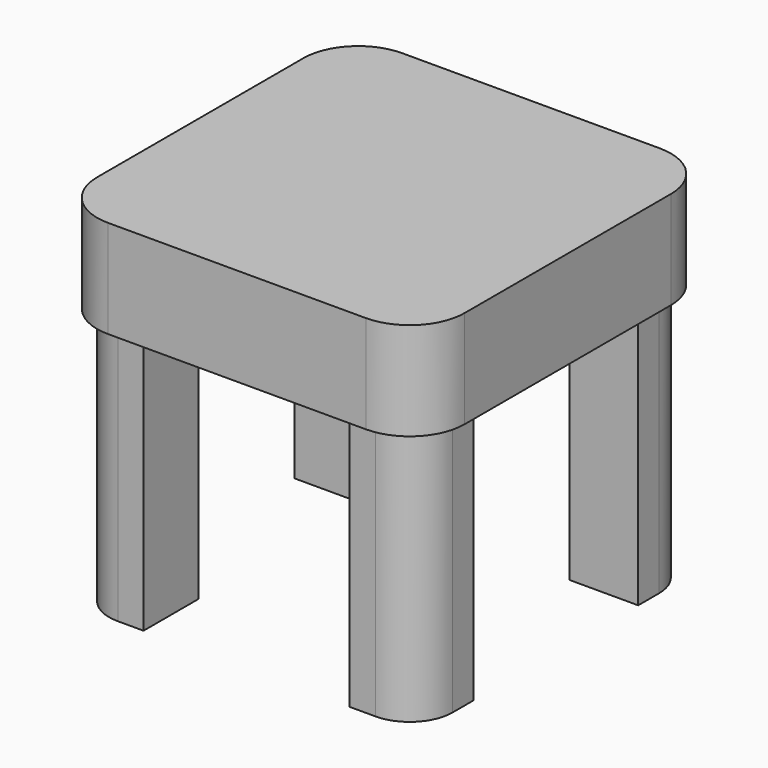
from build123d import *

# Parameters (mm, degrees)
F0_W     = 16
F0_H     = 16
F1_DEPTH = 80
F3_START = 60
F2_W     = 80
F2_H     = 80
F3_DEPTH = 20
F4_R     = 10
F4_2_R   = 10
F4_3_R   = 10
F4_4_R   = 10
F4_5_R   = 10
F5_T     = 2.8


with BuildPart() as f1:
    # F0 (on Top) → F1 (new body)
    with BuildSketch(Plane.XY):
        with Locations((-32, 32)):
            Rectangle(F0_W, F0_H)
    extrude(amount=F1_DEPTH)

    # F4#5
    f4_5_edges = [f1.edges().sort_by_distance(p)[0] for p in [
        (-40, 40, 40),
    ]]
    fillet(f4_5_edges, radius=F4_5_R)


with BuildPart() as f1b:
    # F0 (on Top) → F1, piece 2 (new body)
    with BuildSketch(Plane.XY):
        with Locations((32, 32)):
            Rectangle(F0_W, F0_H)
    extrude(amount=F1_DEPTH)

    # F4#2
    f4_2_edges = [f1b.edges().sort_by_distance(p)[0] for p in [
        (40, 40, 40),
    ]]
    fillet(f4_2_edges, radius=F4_2_R)


with BuildPart() as f1c:
    # F0 (on Top) → F1, piece 3 (new body)
    with BuildSketch(Plane.XY):
        with Locations((32, -32)):
            Rectangle(F0_W, F0_H)
    extrude(amount=F1_DEPTH)

    # F4#3
    f4_3_edges = [f1c.edges().sort_by_distance(p)[0] for p in [
        (40, -40, 40),
    ]]
    fillet(f4_3_edges, radius=F4_3_R)


with BuildPart() as f1d:
    # F0 (on Top) → F1, piece 4 (new body)
    with BuildSketch(Plane.XY):
        with Locations((-32, -32)):
            Rectangle(F0_W, F0_H)
    extrude(amount=F1_DEPTH)

    # F4#4
    f4_4_edges = [f1d.edges().sort_by_distance(p)[0] for p in [
        (-40, -40, 40),
    ]]
    fillet(f4_4_edges, radius=F4_4_R)


with BuildPart() as f3:
    # F2 (on Top) → F3 (new body)
    with BuildSketch(Plane.XY.offset(F3_START)):
        Rectangle(F2_W, F2_H)
    extrude(amount=F3_DEPTH)

    # F4
    f4_edges = [f3.edges().sort_by_distance(p)[0] for p in [
        (-40, -40, 70),
        (40, -40, 70),
        (40, 40, 70),
        (-40, 40, 70),
    ]]
    fillet(f4_edges, radius=F4_R)

    # F5
    f5_openings = [f3.faces().sort_by_distance(p)[0] for p in [
        (0, 0, 60),
    ]]
    offset(amount=F5_T, openings=f5_openings, kind=Kind.INTERSECTION)


solid = Compound([f1.part, f1b.part, f1c.part, f1d.part, f3.part])
